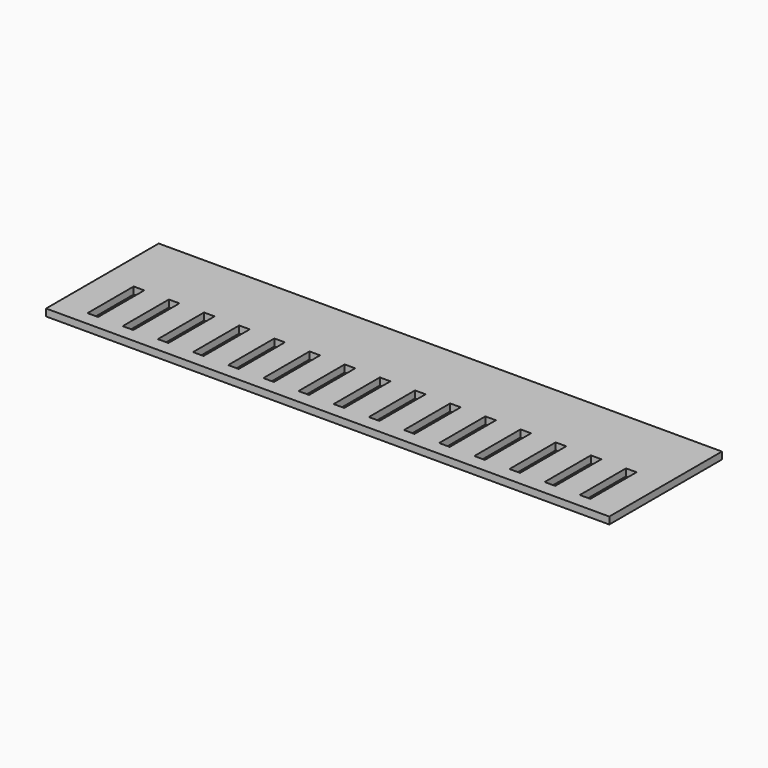
from build123d import *

# Parameters (mm, degrees)
SKETCH002_W                             = 800
SKETCH002_H                             = 200
PAD001_DEPTH                            = 10
SKETCH003_W                             = 15
SKETCH003_H                             = 82
POCKET001_DEPTH                         = 1649.364514
POCKET001_DEPTH_BACK                    = 1659.364514
SKETCH003_LINEARPATTERN002_2_W          = 15
SKETCH003_LINEARPATTERN002_2_H          = 82
POCKET001_LINEARPATTERN002_2_DEPTH      = 1649.364514
POCKET001_LINEARPATTERN002_2_DEPTH_BACK = 1659.364514
SKETCH003_LINEARPATTERN002_3_W          = 15
SKETCH003_LINEARPATTERN002_3_H          = 82
POCKET001_LINEARPATTERN002_3_DEPTH      = 1649.364514
POCKET001_LINEARPATTERN002_3_DEPTH_BACK = 1659.364514
SKETCH003_LINEARPATTERN002_4_W          = 15
SKETCH003_LINEARPATTERN002_4_H          = 82
POCKET001_LINEARPATTERN002_4_DEPTH      = 1649.364514
POCKET001_LINEARPATTERN002_4_DEPTH_BACK = 1659.364514
SKETCH003_LINEARPATTERN002_5_W          = 15
SKETCH003_LINEARPATTERN002_5_H          = 82
POCKET001_LINEARPATTERN002_5_DEPTH      = 1649.364514
POCKET001_LINEARPATTERN002_5_DEPTH_BACK = 1659.364514
SKETCH003_LINEARPATTERN002_6_W          = 15
SKETCH003_LINEARPATTERN002_6_H          = 82
POCKET001_LINEARPATTERN002_6_DEPTH      = 1649.364514
POCKET001_LINEARPATTERN002_6_DEPTH_BACK = 1659.364514
SKETCH003_LINEARPATTERN002_7_W          = 15
SKETCH003_LINEARPATTERN002_7_H          = 82
POCKET001_LINEARPATTERN002_7_DEPTH      = 1649.364514
POCKET001_LINEARPATTERN002_7_DEPTH_BACK = 1659.364514
SKETCH003_LINEARPATTERN002_8_W          = 15
SKETCH003_LINEARPATTERN002_8_H          = 82
POCKET001_LINEARPATTERN002_8_DEPTH      = 1649.364514
POCKET001_LINEARPATTERN002_8_DEPTH_BACK = 1659.364514
LINEARPATTERN003_COUNT                  = 8
LINEARPATTERN003_PITCH                  = 49.95


with BuildPart() as part:
    # Sketch002 → Pad001 (new body)
    with BuildSketch(Plane.XY):
        with Locations((0, 100)):
            Rectangle(SKETCH002_W, SKETCH002_H)
    extrude(amount=PAD001_DEPTH)

    # Sketch003 → Pocket001 (cut, two sides)
    with BuildSketch(Plane(origin=(0, 20, 0), x_dir=(1, 0, 0), z_dir=(0, 0, 1))) as pocket001_sk:
        with Locations((0, 41)):
            Rectangle(SKETCH003_W, SKETCH003_H)
    pocket001 = extrude(amount=-POCKET001_DEPTH, mode=Mode.SUBTRACT) + extrude(pocket001_sk.sketch, amount=POCKET001_DEPTH_BACK, mode=Mode.SUBTRACT)

    # Sketch003 LinearPattern002 2 → Pocket001 LinearPattern002 2 (cut, two sides)
    with BuildSketch(Plane(origin=(49.95, 20, 0), x_dir=(1, 0, 0), z_dir=(0, 0, 1))) as pocket001_linearpattern002_2_sk:
        with Locations((0, 41)):
            Rectangle(SKETCH003_LINEARPATTERN002_2_W, SKETCH003_LINEARPATTERN002_2_H)
    pocket001_linearpattern002_2 = extrude(amount=-POCKET001_LINEARPATTERN002_2_DEPTH, mode=Mode.SUBTRACT) + extrude(pocket001_linearpattern002_2_sk.sketch, amount=POCKET001_LINEARPATTERN002_2_DEPTH_BACK, mode=Mode.SUBTRACT)

    # Sketch003 LinearPattern002 3 → Pocket001 LinearPattern002 3 (cut, two sides)
    with BuildSketch(Plane(origin=(99.9, 20, 0), x_dir=(1, 0, 0), z_dir=(0, 0, 1))) as pocket001_linearpattern002_3_sk:
        with Locations((0, 41)):
            Rectangle(SKETCH003_LINEARPATTERN002_3_W, SKETCH003_LINEARPATTERN002_3_H)
    pocket001_linearpattern002_3 = extrude(amount=-POCKET001_LINEARPATTERN002_3_DEPTH, mode=Mode.SUBTRACT) + extrude(pocket001_linearpattern002_3_sk.sketch, amount=POCKET001_LINEARPATTERN002_3_DEPTH_BACK, mode=Mode.SUBTRACT)

    # Sketch003 LinearPattern002 4 → Pocket001 LinearPattern002 4 (cut, two sides)
    with BuildSketch(Plane(origin=(149.85, 20, 0), x_dir=(1, 0, 0), z_dir=(0, 0, 1))) as pocket001_linearpattern002_4_sk:
        with Locations((0, 41)):
            Rectangle(SKETCH003_LINEARPATTERN002_4_W, SKETCH003_LINEARPATTERN002_4_H)
    pocket001_linearpattern002_4 = extrude(amount=-POCKET001_LINEARPATTERN002_4_DEPTH, mode=Mode.SUBTRACT) + extrude(pocket001_linearpattern002_4_sk.sketch, amount=POCKET001_LINEARPATTERN002_4_DEPTH_BACK, mode=Mode.SUBTRACT)

    # Sketch003 LinearPattern002 5 → Pocket001 LinearPattern002 5 (cut, two sides)
    with BuildSketch(Plane(origin=(199.8, 20, 0), x_dir=(1, 0, 0), z_dir=(0, 0, 1))) as pocket001_linearpattern002_5_sk:
        with Locations((0, 41)):
            Rectangle(SKETCH003_LINEARPATTERN002_5_W, SKETCH003_LINEARPATTERN002_5_H)
    pocket001_linearpattern002_5 = extrude(amount=-POCKET001_LINEARPATTERN002_5_DEPTH, mode=Mode.SUBTRACT) + extrude(pocket001_linearpattern002_5_sk.sketch, amount=POCKET001_LINEARPATTERN002_5_DEPTH_BACK, mode=Mode.SUBTRACT)

    # Sketch003 LinearPattern002 6 → Pocket001 LinearPattern002 6 (cut, two sides)
    with BuildSketch(Plane(origin=(249.75, 20, 0), x_dir=(1, 0, 0), z_dir=(0, 0, 1))) as pocket001_linearpattern002_6_sk:
        with Locations((0, 41)):
            Rectangle(SKETCH003_LINEARPATTERN002_6_W, SKETCH003_LINEARPATTERN002_6_H)
    pocket001_linearpattern002_6 = extrude(amount=-POCKET001_LINEARPATTERN002_6_DEPTH, mode=Mode.SUBTRACT) + extrude(pocket001_linearpattern002_6_sk.sketch, amount=POCKET001_LINEARPATTERN002_6_DEPTH_BACK, mode=Mode.SUBTRACT)

    # Sketch003 LinearPattern002 7 → Pocket001 LinearPattern002 7 (cut, two sides)
    with BuildSketch(Plane(origin=(299.7, 20, 0), x_dir=(1, 0, 0), z_dir=(0, 0, 1))) as pocket001_linearpattern002_7_sk:
        with Locations((0, 41)):
            Rectangle(SKETCH003_LINEARPATTERN002_7_W, SKETCH003_LINEARPATTERN002_7_H)
    pocket001_linearpattern002_7 = extrude(amount=-POCKET001_LINEARPATTERN002_7_DEPTH, mode=Mode.SUBTRACT) + extrude(pocket001_linearpattern002_7_sk.sketch, amount=POCKET001_LINEARPATTERN002_7_DEPTH_BACK, mode=Mode.SUBTRACT)

    # Sketch003 LinearPattern002 8 → Pocket001 LinearPattern002 8 (cut, two sides)
    with BuildSketch(Plane(origin=(349.65, 20, 0), x_dir=(1, 0, 0), z_dir=(0, 0, 1))) as pocket001_linearpattern002_8_sk:
        with Locations((0, 41)):
            Rectangle(SKETCH003_LINEARPATTERN002_8_W, SKETCH003_LINEARPATTERN002_8_H)
    pocket001_linearpattern002_8 = extrude(amount=-POCKET001_LINEARPATTERN002_8_DEPTH, mode=Mode.SUBTRACT) + extrude(pocket001_linearpattern002_8_sk.sketch, amount=POCKET001_LINEARPATTERN002_8_DEPTH_BACK, mode=Mode.SUBTRACT)

    # LinearPattern003: Pocket001, Pocket001 LinearPattern002 2, Pocket001 LinearPattern002 3, Pocket001 LinearPattern002 4, Pocket001 LinearPattern002 5, Pocket001 LinearPattern002 6, Pocket001 LinearPattern002 7, Pocket001 LinearPattern002 8 ×8
    with Locations(*[(-i * LINEARPATTERN003_PITCH, 0, 0) for i in range(1, LINEARPATTERN003_COUNT)]):
        add(pocket001, mode=Mode.SUBTRACT)
        add(pocket001_linearpattern002_2, mode=Mode.SUBTRACT)
        add(pocket001_linearpattern002_3, mode=Mode.SUBTRACT)
        add(pocket001_linearpattern002_4, mode=Mode.SUBTRACT)
        add(pocket001_linearpattern002_5, mode=Mode.SUBTRACT)
        add(pocket001_linearpattern002_6, mode=Mode.SUBTRACT)
        add(pocket001_linearpattern002_7, mode=Mode.SUBTRACT)
        add(pocket001_linearpattern002_8, mode=Mode.SUBTRACT)


solid = part.part
